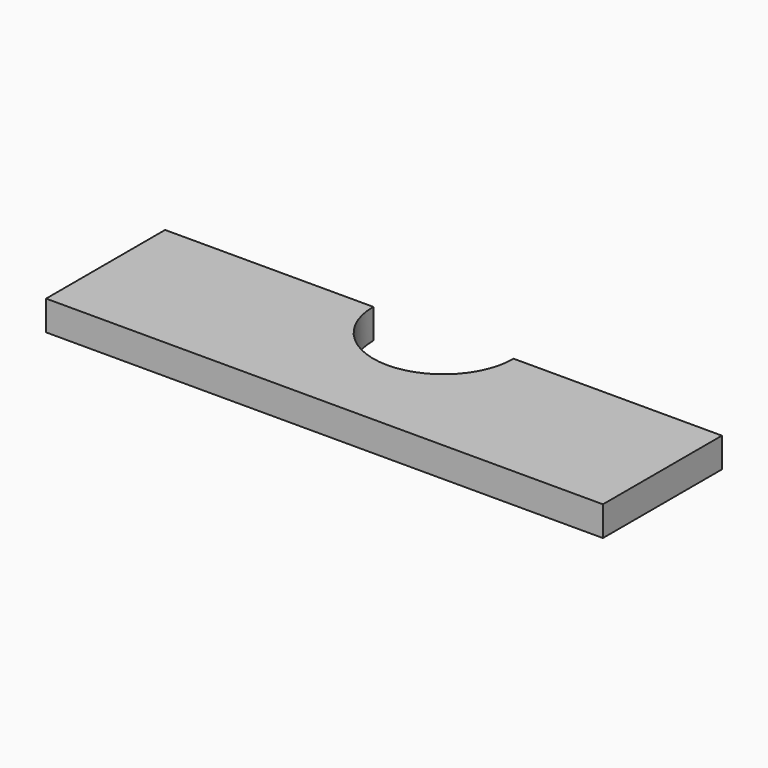
from build123d import *

# Parameters (mm, degrees)
F1_DEPTH = 6.35


with BuildPart() as f1:
    # F0 (on Top) → F1 (new body)
    with BuildSketch(Plane.XY):
        with BuildLine():
            Line((44.45, 0), (0, 0))
            Line((0, 0), (0, -31.75))
            Line((0, -31.75), (118.872, -31.75))
            Line((118.872, -31.75), (118.872, 0))
            Line((118.872, 0), (74.422, 0))
            ThreePointArc((74.422, 0), (59.436, -14.986), (44.45, 0))
        make_face()
    extrude(amount=F1_DEPTH)


solid = f1.part
